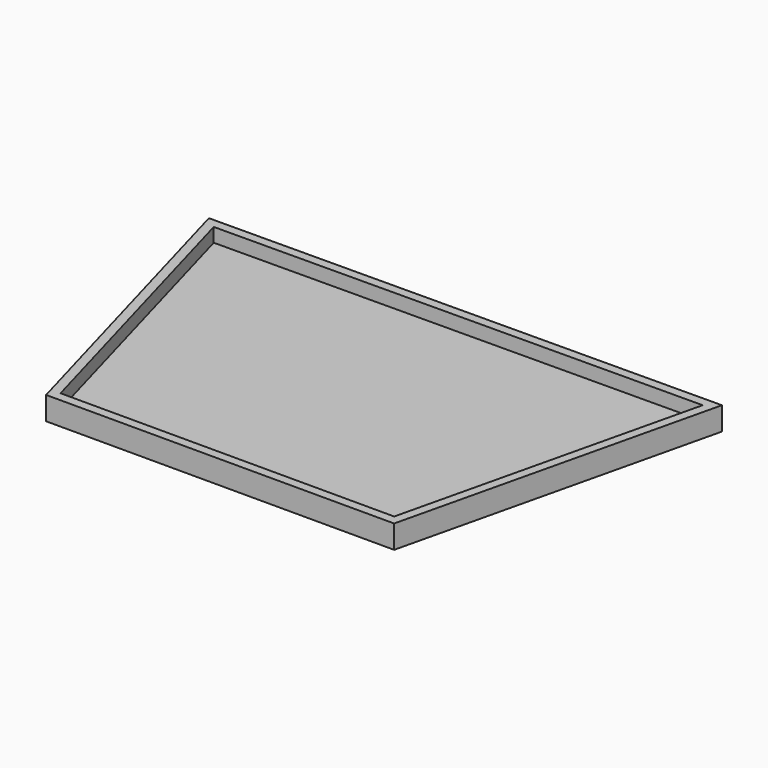
from build123d import *

# Parameters (mm, degrees)
F1_DEPTH = 12.7
F2_T     = -5.08


with BuildPart() as f1:
    # F0 (on Top) → F1 (new body)
    with BuildSketch(Plane.XY):
        Polygon((-127.572568, 155.790623), (-79.69885, -15.442981), (110.80115, -15.442981), (151.827432, 157.558996), align=None)
    extrude(amount=F1_DEPTH)

    # F2
    f2_openings = [f1.faces().sort_by_distance(p)[0] for p in [
        (13.894392, 76.045407, 12.7),
    ]]
    offset(amount=F2_T, openings=f2_openings)


solid = f1.part
